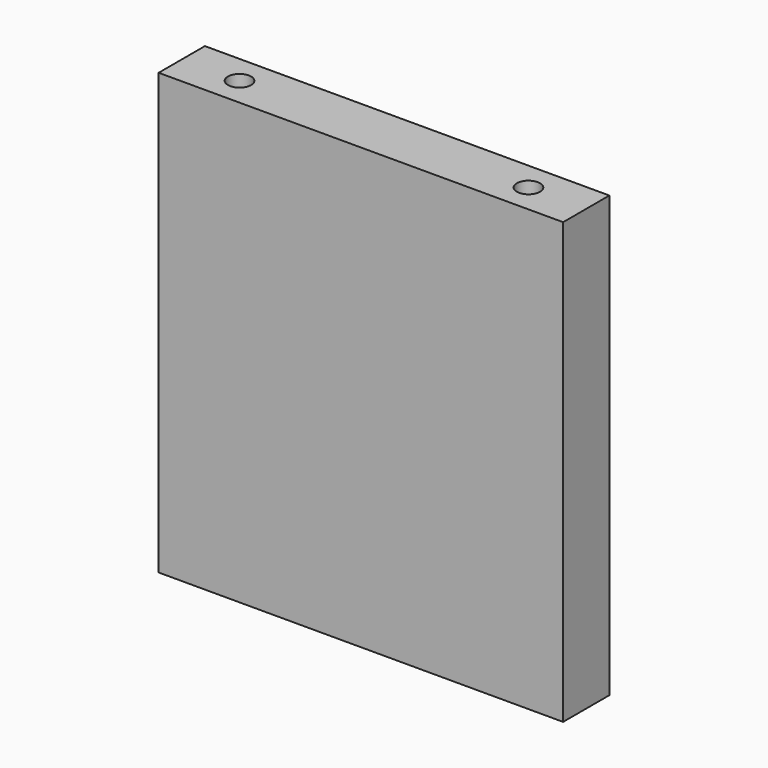
from build123d import *

# Parameters (mm, degrees)
F0_W     = 88.9
F0_H     = 12.7
F1_DEPTH = 96.6975968
F3_D     = 5.1054
F3_DEPTH = 13.97
F3_TIP   = 1.5338169022
F5_D     = 5.1054
F5_DEPTH = 13.97
F5_TIP   = 1.5338169022


with BuildPart() as f1:
    # F0 (on Top) → F1 (new body)
    with BuildSketch(Plane.XY):
        with Locations((-44.45, 6.35)):
            Rectangle(F0_W, F0_H)
    extrude(amount=F1_DEPTH)

    # F3
    with Locations(Plane.XY.offset(96.6975968)):
        with Locations((-76.2, 6.35), (-12.7, 6.35)):
            Hole(F3_D / 2, depth=F3_DEPTH)
            with Locations((0, 0, -(F3_DEPTH + F3_TIP / 2))):  # 118° drill point
                Cone(0, F3_D / 2, F3_TIP, mode=Mode.SUBTRACT)

    # F5
    with Locations(Plane(origin=(0, 0, 0), x_dir=(1, 0, 0), z_dir=(0, 0, -1))):
        with Locations((-76.2, -6.35), (-12.7, -6.35)):
            Hole(F5_D / 2, depth=F5_DEPTH)
            with Locations((0, 0, -(F5_DEPTH + F5_TIP / 2))):  # 118° drill point
                Cone(0, F5_D / 2, F5_TIP, mode=Mode.SUBTRACT)


solid = f1.part
